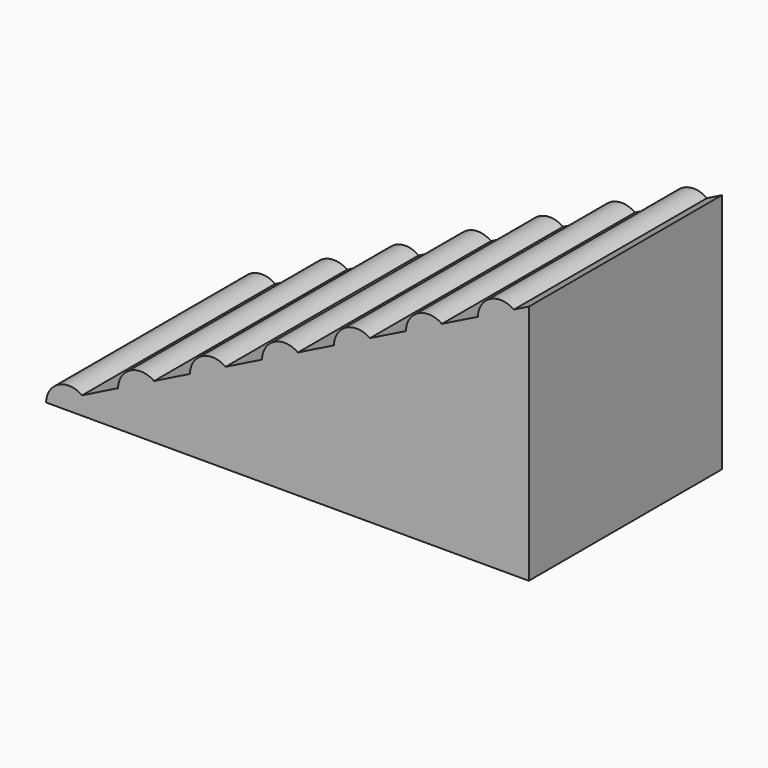
from build123d import *

# Parameters (mm, degrees)
F1_DEPTH = 76.2


with BuildPart() as f1:
    # F0 (on Front) → F1 (new body, symmetric)
    with BuildSketch(Plane.XZ):
        with BuildLine():
            Line((148.453165, 136.304118), (171.171616, 147.663344))
            ThreePointArc((171.171616, 147.663344), (156.404623, 148.799266), (148.453165, 136.304118))
        make_face()
        with BuildLine():
            Line((103.016264, 113.585668), (125.734715, 124.944893))
            ThreePointArc((125.734715, 124.944893), (110.967722, 126.080815), (103.016264, 113.585668))
        make_face()
        with BuildLine():
            Line((57.579363, 90.867217), (80.297813, 102.226442))
            ThreePointArc((80.297813, 102.226442), (65.53082, 103.362365), (57.579363, 90.867217))
        make_face()
        with BuildLine():
            ThreePointArc((34.860912, 79.507992), (20.093919, 80.643914), (12.142461, 68.148766))
            Line((12.142461, 68.148766), (34.860912, 79.507992))
        make_face()
        with BuildLine():
            ThreePointArc((-10.837095, 56.658988), (-25.46695, 57.86348), (-33.281269, 45.436901))
            Line((-33.281269, 45.436901), (-10.837095, 56.658988))
        make_face()
        Polygon((-124.155071, 0), (180.644929, 0), (180.644929, 152.4), (171.171616, 147.663344), (148.453165, 136.304118), (125.734715, 124.944893), (103.016264, 113.585668), (80.297813, 102.226442), (57.579363, 90.867217), (34.860912, 79.507992), (12.142461, 68.148766), (-10.837095, 56.658988), (-33.281269, 45.436901), (-55.999719, 34.077676), (-78.71817, 22.718451), (-101.436621, 11.359225), align=None)
        with BuildLine():
            ThreePointArc((-55.999719, 34.077676), (-70.766712, 35.213599), (-78.71817, 22.718451))
            Line((-78.71817, 22.718451), (-55.999719, 34.077676))
        make_face()
        with BuildLine():
            ThreePointArc((-101.436621, 11.359225), (-116.203614, 12.495148), (-124.155071, 0))
            Line((-124.155071, 0), (-101.436621, 11.359225))
        make_face()
    extrude(amount=F1_DEPTH, both=True)


solid = f1.part
